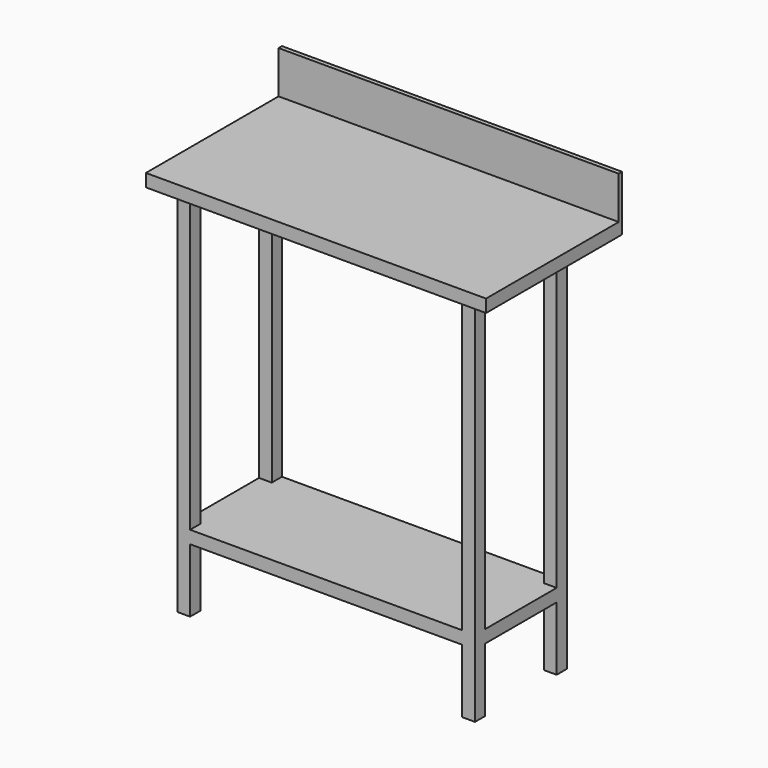
from build123d import *

# Parameters (mm, degrees)
F0_W          = 800
F0_H          = 400
F1_DEPTH      = 30
F2_W          = 800
F2_H          = 10
F3_DEPTH      = 100
F4_W          = 30
F4_H          = 30
F5_DEPTH      = 875
F6_W          = 700
F6_H          = 30
F7_DEPTH      = 170
F7_DEPTH_BACK = 100


with BuildPart() as f1:
    # F0 (on Top) → F1 (new body)
    with BuildSketch(Plane.XY):
        Rectangle(F0_W, F0_H)
    extrude(amount=F1_DEPTH)

    # F2 (on face) → F3 (join)
    with BuildSketch(Plane.XY.offset(30)):
        with Locations((0, 195)):
            Rectangle(F2_W, F2_H)
    extrude(amount=F3_DEPTH)

    # F4 (on face) → F5 (join)
    with BuildSketch(Plane(origin=(0, 0, 0), x_dir=(1, 0, 0), z_dir=(0, 0, -1))):
        with Locations((335, 155)):
            Rectangle(F4_W, F4_H)
        with Locations((335, -85)):
            Rectangle(F4_W, F4_H)
        with Locations((-335, 155)):
            Rectangle(F4_W, F4_H)
        with Locations((-335, -85)):
            Rectangle(F4_W, F4_H)
    extrude(amount=F5_DEPTH)

    # F6 (on Front) → F7 (join, two sides)
    with BuildSketch(Plane.XZ) as f7_sk:
        with Locations((0, -710)):
            Rectangle(F6_W, F6_H)
    extrude(amount=F7_DEPTH)
    extrude(f7_sk.sketch, amount=-F7_DEPTH_BACK)


solid = f1.part
